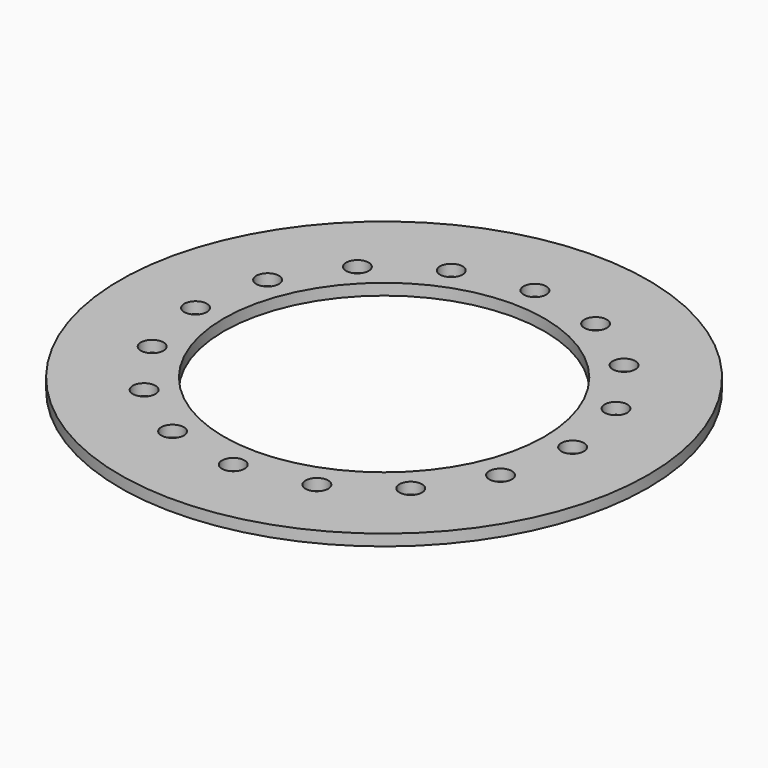
from build123d import *

# Parameters (mm, degrees)
F0_R     = 70
F0_R_2   = 3
F0_R_3   = 42.5
F1_DEPTH = 3


with BuildPart() as f1:
    # F0 (on Top) → F1 (new body)
    with BuildSketch(Plane.XY):
        Circle(F0_R)
        with Locations((-35.355339, -35.355339)):
            Circle(F0_R_2, mode=Mode.SUBTRACT)
        with Locations((-19.134172, -46.193977)):
            Circle(F0_R_2, mode=Mode.SUBTRACT)
        with Locations((-46.193977, -19.134172)):
            Circle(F0_R_2, mode=Mode.SUBTRACT)
        with Locations((0, -50)):
            Circle(F0_R_2, mode=Mode.SUBTRACT)
        with Locations((19.134172, -46.193977)):
            Circle(F0_R_2, mode=Mode.SUBTRACT)
        with Locations((35.355339, -35.355339)):
            Circle(F0_R_2, mode=Mode.SUBTRACT)
        with Locations((46.193977, -19.134172)):
            Circle(F0_R_2, mode=Mode.SUBTRACT)
        with Locations((-50, 0)):
            Circle(F0_R_2, mode=Mode.SUBTRACT)
        with Locations((-46.193977, 19.134172)):
            Circle(F0_R_2, mode=Mode.SUBTRACT)
        with Locations((-35.355339, 35.355339)):
            Circle(F0_R_2, mode=Mode.SUBTRACT)
        with Locations((-19.134172, 46.193977)):
            Circle(F0_R_2, mode=Mode.SUBTRACT)
        Circle(F0_R_3, mode=Mode.SUBTRACT)
        with Locations((50, 0)):
            Circle(F0_R_2, mode=Mode.SUBTRACT)
        with Locations((46.193977, 19.134172)):
            Circle(F0_R_2, mode=Mode.SUBTRACT)
        with Locations((0, 50)):
            Circle(F0_R_2, mode=Mode.SUBTRACT)
        with Locations((19.134172, 46.193977)):
            Circle(F0_R_2, mode=Mode.SUBTRACT)
        with Locations((35.355339, 35.355339)):
            Circle(F0_R_2, mode=Mode.SUBTRACT)
    extrude(amount=F1_DEPTH)


solid = f1.part
